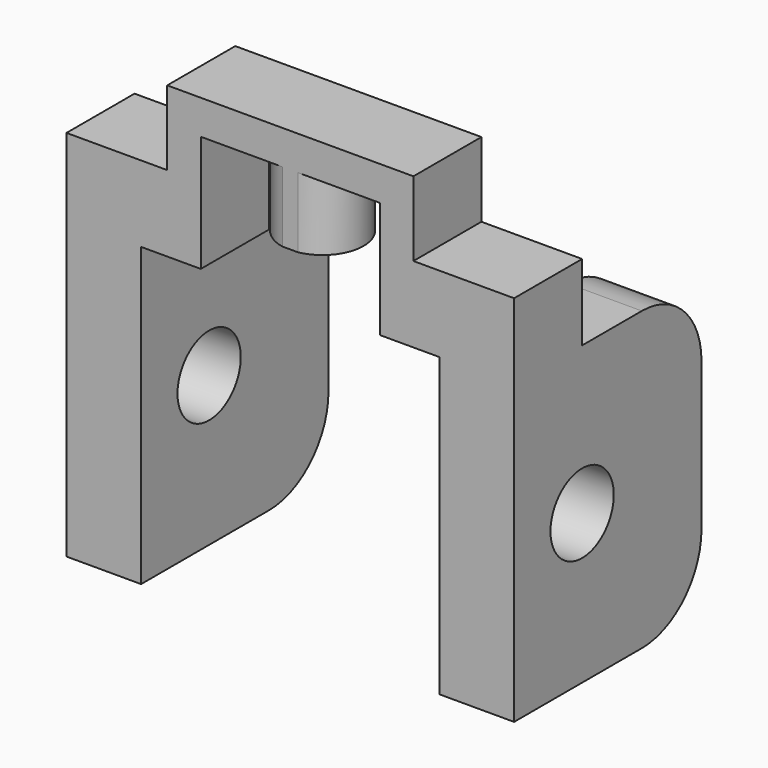
from build123d import *

# Parameters (mm, degrees)
F1_DEPTH  = 20
F2_R      = 2.65
F3_DEPTH  = 30.001
F4_R      = 2.75
F5_DEPTH  = 7
F6_W      = 30
F6_H      = 10
F7_DEPTH  = 10.1
F9_R      = 5
F8_W      = 30
F8_H      = 4.3
F10_DEPTH = 30.001
F11_R     = 5


with BuildPart() as f1:
    # F0 (on Front) → F1 (new body)
    with BuildSketch(Plane.XZ):
        Polygon((-0.255054, 4.627101), (-7.005054, 4.627101), (-7.005054, -20.372899), (-2.005054, -20.372899), (-2.005054, -0.472899), (1.994946, -0.472899), (1.994946, 7.327101), (13.994946, 7.327101), (13.994946, -0.472899), (17.994946, -0.472899), (17.994946, -20.372899), (22.994946, -20.372899), (22.994946, 4.627101), (16.244946, 4.627101), (16.244946, 9.627101), (-0.255054, 9.627101), align=None)
    extrude(amount=F1_DEPTH)

    # F2 (on face) → F3 (cut, through all)
    with BuildSketch(Plane(origin=(-7.005054, 0, 0), x_dir=(0, -1, 0), z_dir=(-1, 0, 0))):
        with Locations((10, -10.372899)):
            Circle(F2_R)
    extrude(amount=-F3_DEPTH, mode=Mode.SUBTRACT)

    # F4 (on face) → F5 (join)
    with BuildSketch(Plane.XY.offset(9.627101)):
        with Locations((7.994946, -13)):
            Circle(F4_R)
    extrude(amount=-F5_DEPTH)

    # F6 (on face) → F7 (cut, through all)
    with BuildSketch(Plane.XY.offset(9.627101)):
        with Locations((7.994946, -5)):
            Rectangle(F6_W, F6_H)
    extrude(amount=-F7_DEPTH, mode=Mode.SUBTRACT)

    # F9
    f9_edges = [f1.edges().sort_by_distance(p)[0] for p in [
        (20.494946, 0, -0.472899),
        (-4.505054, 0, -0.472899),
    ]]
    fillet(f9_edges, radius=F9_R)

    # F8 (on face) → F10 (cut, through all)
    with BuildSketch(Plane(origin=(0, 0, -20.372899), x_dir=(1, 0, 0), z_dir=(0, 0, -1))):
        with Locations((7.994946, 17.85)):
            Rectangle(F8_W, F8_H)
    extrude(amount=-F10_DEPTH, mode=Mode.SUBTRACT)

    # F11
    f11_edges = [f1.edges().sort_by_distance(p)[0] for p in [
        (20.494946, 0, -20.372899),
        (-4.505054, 0, -20.372899),
    ]]
    fillet(f11_edges, radius=F11_R)


solid = f1.part
